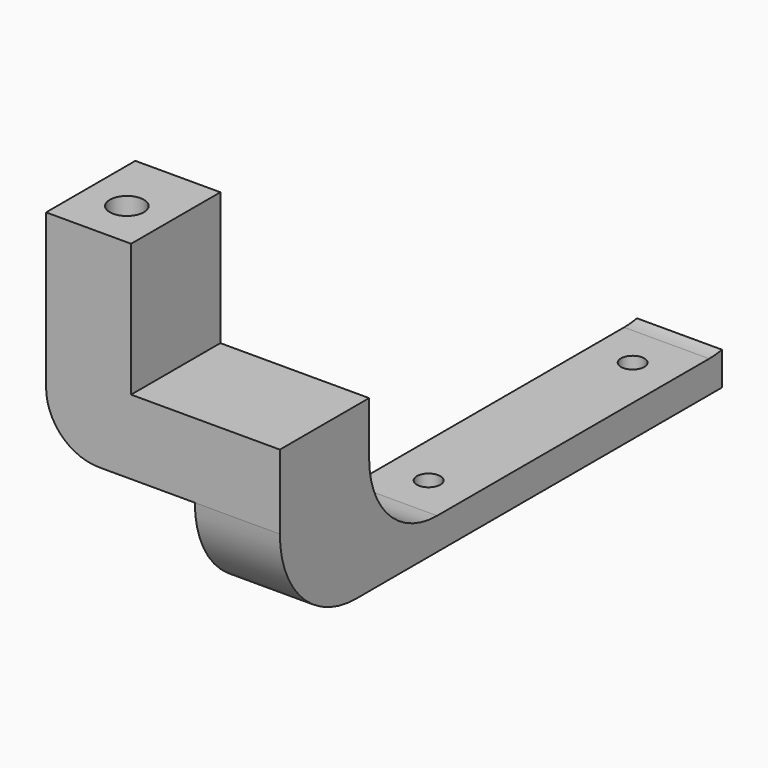
from build123d import *

# Parameters (mm, degrees)
CYLINDER031_R     = 1.6
CYLINDER031_DEPTH = 28
BOX041_W          = 8
BOX041_H          = 10.5
BOX041_DEPTH      = 2.5
CYLINDER013_R     = 1.1
CYLINDER013_DEPTH = 28
CYLINDER012_R     = 1.1
CYLINDER012_DEPTH = 28
CYLINDER011_R     = 1.6
CYLINDER011_DEPTH = 28
CYLINDER010_R     = 3
CYLINDER010_DEPTH = 4
BOX037_W          = 8
BOX037_H          = 10.5
BOX037_DEPTH      = 10
BOX017_W          = 4
BOX017_H          = 52
BOX017_DEPTH      = 1.5
BOX016_W          = 77
BOX016_H          = 48
BOX016_DEPTH      = 40
FILLET009_R       = 8
BOX015_W          = 8
BOX015_H          = 52
BOX015_DEPTH      = 26
FILLET008_R       = 9
BOX039_W          = 15
BOX039_H          = 10.5
BOX039_DEPTH      = 7
BOX038_W          = 8
BOX038_H          = 10.5
BOX038_DEPTH      = 10
FILLET011_R       = 5


with BuildPart() as cylinder031:
    # Cylinder031 → Cylinder031 (new body)
    with BuildSketch(Plane(origin=(74, 76, -28), x_dir=(1, 0, 0), z_dir=(0, 0, 1))):
        Circle(CYLINDER031_R)
    extrude(amount=CYLINDER031_DEPTH)


with BuildPart() as cut031:
    # Box041 → Box041 (new body)
    with BuildSketch(Plane(origin=(70, 71.5, -26), x_dir=(1, 0, 0), z_dir=(0, 0, 1))):
        with Locations((4, 5.25)):
            Rectangle(BOX041_W, BOX041_H)
    extrude(amount=BOX041_DEPTH)

    # Cut031: cut Cylinder031
    add(cylinder031.part, mode=Mode.SUBTRACT)


with BuildPart() as cut031_1:
    # Cut031 placement: moved
    add(cut031.part.moved(Location((40, 0, 26))))


with BuildPart() as cylinder013:
    # Cylinder013 → Cylinder013 (new body)
    with BuildSketch(Plane(origin=(74, 118, -26), x_dir=(1, 0, 0), z_dir=(0, 0, 1))):
        Circle(CYLINDER013_R)
    extrude(amount=CYLINDER013_DEPTH)


with BuildPart() as fusion009:
    # Cylinder012 → Cylinder012 (new body)
    with BuildSketch(Plane(origin=(74, 94, -26), x_dir=(1, 0, 0), z_dir=(0, 0, 1))):
        Circle(CYLINDER012_R)
    extrude(amount=CYLINDER012_DEPTH)

    # Fusion009: union Cylinder013
    add(cylinder013.part)


with BuildPart() as fusion009_1:
    # Fusion009 placement: moved
    add(fusion009.part.moved(Location((54, 0, 0))))


with BuildPart() as cylinder011:
    # Cylinder011 → Cylinder011 (new body)
    with BuildSketch(Plane(origin=(74, 79, -26), x_dir=(1, 0, 0), z_dir=(0, 0, 1))):
        Circle(CYLINDER011_R)
    extrude(amount=CYLINDER011_DEPTH)


with BuildPart() as fusion008:
    # Cylinder010 → Cylinder010 (new body)
    with BuildSketch(Plane(origin=(74, 79, -26), x_dir=(1, 0, 0), z_dir=(0, 0, 1))):
        Circle(CYLINDER010_R)
    extrude(amount=CYLINDER010_DEPTH)

    # Fusion008: union Cylinder011
    add(cylinder011.part)


with BuildPart() as fusion008_1:
    # Fusion008 placement: moved
    add(fusion008.part.moved(Location((40, -3, 8))))


with BuildPart() as cube001:
    # Box037 → Box037 (new body)
    with BuildSketch(Plane(origin=(124, 71.5, -10), x_dir=(1, 0, 0), z_dir=(0, 0, 1))):
        with Locations((4, 5.25)):
            Rectangle(BOX037_W, BOX037_H)
    extrude(amount=BOX037_DEPTH)


with BuildPart() as box017:
    # Box017 → Box017 (new body)
    with BuildSketch(Plane(origin=(72, 71.5, -26), x_dir=(1, 0, 0), z_dir=(0, 0, 1))):
        with Locations((2, 26)):
            Rectangle(BOX017_W, BOX017_H)
    extrude(amount=BOX017_DEPTH)


with BuildPart() as fillet009:
    # Box016 → Box016 (new body)
    with BuildSketch(Plane(origin=(62, 82, -27), x_dir=(1, 0, 0), z_dir=(0, 0, 1))):
        with Locations((38.5, 24)):
            Rectangle(BOX016_W, BOX016_H)
    extrude(amount=BOX016_DEPTH)

    # Fillet009
    fillet009_edges = [fillet009.edges().sort_by_distance(p)[0] for p in [
        (100.5, 82, -27),
        (100.5, 82, 13),
        (100.5, 130, -27),
        (100.5, 130, 13),
    ]]
    fillet(fillet009_edges, radius=FILLET009_R)


with BuildPart() as fillet009_1:
    # Fillet009 placement: moved
    add(fillet009.part.moved(Location((0, 0, 4))))


with BuildPart() as cut027:
    # Box015 → Box015 (new body)
    with BuildSketch(Plane(origin=(70, 71.5, -26), x_dir=(1, 0, 0), z_dir=(0, 0, 1))):
        with Locations((4, 26)):
            Rectangle(BOX015_W, BOX015_H)
    extrude(amount=BOX015_DEPTH)

    # Cut012: cut Fillet009
    add(fillet009_1.part, mode=Mode.SUBTRACT)

    # Fillet008
    fillet008_edges = [cut027.edges().sort_by_distance(p)[0] for p in [
        (74, 71.5, -26),
    ]]
    fillet(fillet008_edges, radius=FILLET008_R)

    # Cut011: cut Box017
    add(box017.part, mode=Mode.SUBTRACT)


with BuildPart() as cut027_1:
    # Cut011 placement: moved
    add(cut027.part.moved(Location((54, 0, 0))))

    # Cut027: cut Cube001
    add(cube001.part, mode=Mode.SUBTRACT)


with BuildPart() as cube003:
    # Box039 → Box039 (new body)
    with BuildSketch(Plane(origin=(110, 71.5, -17), x_dir=(1, 0, 0), z_dir=(0, 0, 1))):
        with Locations((7.5, 5.25)):
            Rectangle(BOX039_W, BOX039_H)
    extrude(amount=BOX039_DEPTH)


with BuildPart() as fusion035:
    # Box038 → Box038 (new body)
    with BuildSketch(Plane(origin=(110, 71.5, -10), x_dir=(1, 0, 0), z_dir=(0, 0, 1))):
        with Locations((4, 5.25)):
            Rectangle(BOX038_W, BOX038_H)
    extrude(amount=BOX038_DEPTH)

    # Fusion033: union Cut027, Cube003
    add(cut027_1.part)
    add(cube003.part)

    # Fillet011
    fillet011_edges = [fusion035.edges().sort_by_distance(p)[0] for p in [
        (110, 76.75, -17),
    ]]
    fillet(fillet011_edges, radius=FILLET011_R)

    # Cut028: cut Fusion008
    add(fusion008_1.part, mode=Mode.SUBTRACT)

    # Cut029: cut Fusion009
    add(fusion009_1.part, mode=Mode.SUBTRACT)

    # Fusion035: union Cut031
    add(cut031_1.part)


solid = fusion035.part
